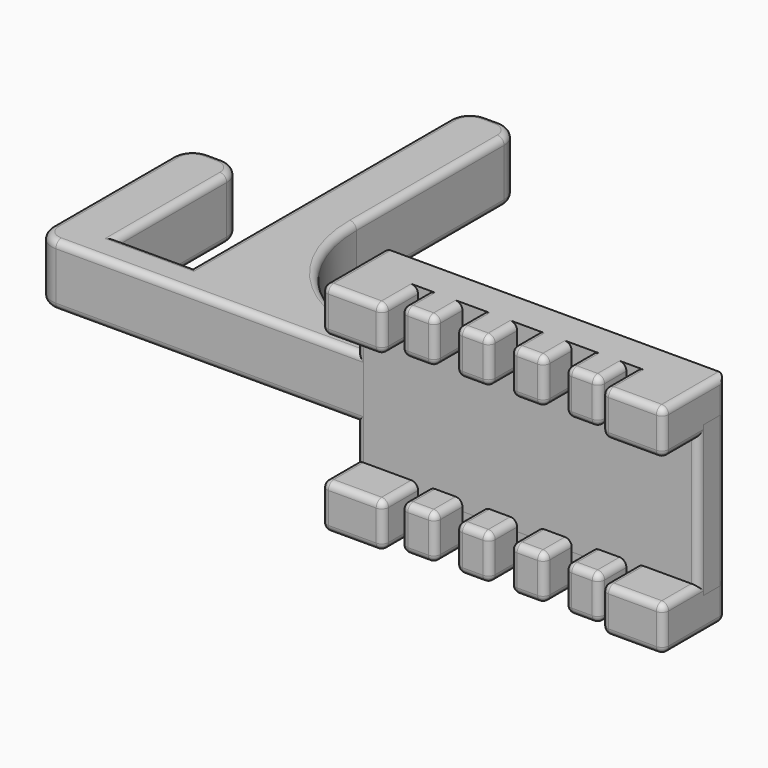
from build123d import *

# Parameters (mm, degrees)
PAD_DEPTH    = 6.5
FILLET_R     = 1
PAD002_DEPTH = 4.5
FILLET001_R  = 1
SKETCH003_W  = 50
SKETCH003_H  = 5
PAD003_DEPTH = 11
FILLET002_R  = 1


with BuildPart() as body:
    # Sketch → Pad (new body)
    with BuildSketch(Plane(origin=(0, 0, 0), x_dir=(1, 0, 0), z_dir=(0, 0, -1))):
        Polygon((0, 6.4), (9, 6.4), (9, 0), (10.5, 0), (10.5, 5), (15.5, 5), (15.5, 0), (18.5, 0), (18.5, 5), (23.5, 5), (23.5, 0), (26.5, 0), (26.5, 5), (31.5, 5), (31.5, 0), (34.5, 0), (34.5, 5), (39.5, 5), (39.5, 0), (41, 0), (41, 6.4), (50, 6.4), (50, -5), (0, -5), align=None)
    extrude(amount=PAD_DEPTH)

    # Fillet
    fillet_edges = [body.edges().sort_by_distance(p)[0] for p in [
        (10.5, -5, -3.25),
        (15.5, -5, -3.25),
        (13, -5, 0),
        (13, -5, -6.5),
        (18.5, -5, -3.25),
        (23.5, -5, -3.25),
        (21, -5, 0),
        (21, -5, -6.5),
        (26.5, -5, -3.25),
        (31.5, -5, -3.25),
        (29, -5, 0),
        (29, -5, -6.5),
        (34.5, -5, -3.25),
        (39.5, -5, -3.25),
        (37, -5, 0),
        (37, -5, -6.5),
        (15.5, -2.5, 0),
        (10.5, -2.5, 0),
        (18.5, -2.5, 0),
        (23.5, -2.5, 0),
        (26.5, -2.5, 0),
        (31.5, -2.5, 0),
        (34.5, -2.5, 0),
        (39.5, -2.5, 0),
        (39.5, -2.5, -6.5),
        (34.5, -2.5, -6.5),
        (31.5, -2.5, -6.5),
        (26.5, -2.5, -6.5),
        (23.5, -2.5, -6.5),
        (18.5, -2.5, -6.5),
        (15.5, -2.5, -6.5),
        (10.5, -2.5, -6.5),
        (50, 5, -3.25),
        (0, 5, -3.25),
        (41, -6.4, -3.25),
        (50, -6.4, -3.25),
        (45.5, -6.4, 0),
        (45.5, -6.4, -6.5),
        (0, -6.4, -3.25),
        (9, -6.4, -3.25),
        (4.5, -6.4, 0),
        (4.5, -6.4, -6.5),
        (9, -3.2, 0),
        (9, -3.2, -6.5),
        (0, -0.7, 0),
        (50, -0.7, 0),
        (50, -0.7, -6.5),
        (41, -3.2, 0),
        (41, -3.2, -6.5),
        (0, -0.7, -6.5),
        (25, 5, -6.5),
    ]]
    fillet(fillet_edges, radius=FILLET_R)


with BuildPart() as body_1:
    # Body placement: moved
    add(body.part.moved(Location((0, 0, -9.4))))


with BuildPart() as body001:
    # Clone base: copy of Body
    add(body_1.part)


with BuildPart() as body001_1:
    # Clone placement: moved
    add(body001.part.moved(Location((0, 0, 25.3))))


with BuildPart() as body003:
    # Sketch002 → Pad002 (new body, symmetric)
    with BuildSketch(Plane.XY):
        with BuildLine():
            Line((-47, 3), (-47, 25))
            ThreePointArc((-44, 28), (-46.12132, 27.12132), (-47, 25))
            Line((-44, 28), (-42, 28))
            ThreePointArc((-39, 25), (-39.87868, 27.12132), (-42, 28))
            Line((-39, 25), (-39, 5))
            Line((-39, 5), (-28, 5))
            Line((-28, 5), (-28, 52))
            ThreePointArc((-25, 55), (-27.12132, 54.12132), (-28, 52))
            Line((-25, 55), (-23, 55))
            ThreePointArc((-20, 52), (-20.87868, 54.12132), (-23, 55))
            Line((-20, 52), (-20, 25))
            ThreePointArc((-20, 25), (-14.142136, 10.857864), (0, 5))
            Line((0, 5), (18, 5))
            Line((18, 5), (18, 0))
            Line((18, 0), (-44, 0))
            ThreePointArc((-47, 3), (-46.12132, 0.87868), (-44, 0))
        make_face()
    extrude(amount=PAD002_DEPTH, both=True)

    # Fillet001
    fillet001_edges = [body003.edges().sort_by_distance(p)[0] for p in [
        (-20, 38.5, -4.5),
        (-14.142136, 10.857864, -4.5),
        (9, 5, -4.5),
        (18, 2.5, -4.5),
        (-13, 0, -4.5),
        (-46.12132, 0.87868, -4.5),
        (-47, 14, -4.5),
        (-46.12132, 27.12132, -4.5),
        (-43, 28, -4.5),
        (-39.87868, 27.12132, -4.5),
        (-39, 15, -4.5),
        (-33.5, 5, -4.5),
        (-28, 28.5, -4.5),
        (-27.12132, 54.12132, -4.5),
        (-24, 55, -4.5),
        (-20.87868, 54.12132, -4.5),
        (-20, 38.5, 4.5),
        (-14.142136, 10.857864, 4.5),
        (9, 5, 4.5),
        (18, 2.5, 4.5),
        (-13, 0, 4.5),
        (-46.12132, 0.87868, 4.5),
        (-47, 14, 4.5),
        (-46.12132, 27.12132, 4.5),
        (-43, 28, 4.5),
        (-39.87868, 27.12132, 4.5),
        (-39, 15, 4.5),
        (-33.5, 5, 4.5),
        (-28, 28.5, 4.5),
        (-27.12132, 54.12132, 4.5),
        (-24, 55, 4.5),
        (-20.87868, 54.12132, 4.5),
    ]]
    fillet(fillet001_edges, radius=FILLET001_R)


with BuildPart() as body004:
    # Sketch003 → Pad003 (new body, symmetric)
    with BuildSketch(Plane.XY):
        with Locations((25, 2.5)):
            Rectangle(SKETCH003_W, SKETCH003_H)
    extrude(amount=PAD003_DEPTH, both=True)

    # Fillet002
    fillet002_edges = [body004.edges().sort_by_distance(p)[0] for p in [
        (50, 0, 0),
        (50, 5, 0),
        (0, 0, 0),
        (0, 5, 0),
    ]]
    fillet(fillet002_edges, radius=FILLET002_R)


solid = Compound([body_1.part, body001_1.part, body003.part, body004.part])
